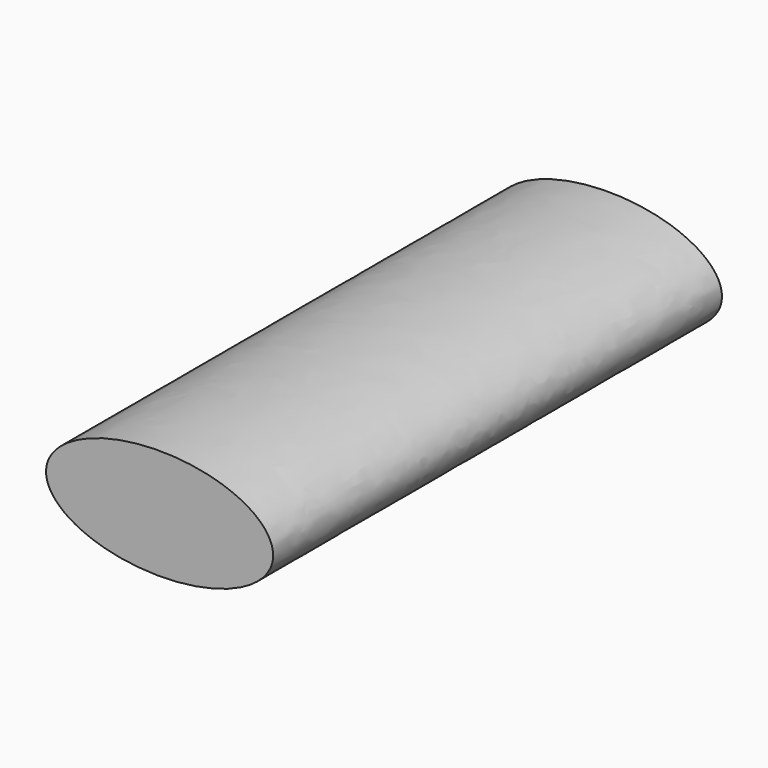
from build123d import *

# Parameters (mm, degrees)
F1_DEPTH = 228.6


with BuildPart() as f1:
    # F0 (on Front) → F1 (new body)
    with BuildSketch(Plane.XZ):
        with BuildLine():
            add(Edge.make_bspline(
                [(-46.262965, 0), (-46.262965, -38.960091), (23.131482, -19.480045), (92.525929, 0), (23.131482, 19.480045), (-46.262965, 38.960091), (-46.262965, 0)],
                knots=[0, 0, 0, 2.094395, 2.094395, 4.18879, 4.18879, 6.283185, 6.283185, 6.283185], degree=2, weights=[1, 0.5, 1, 0.5, 1, 0.5, 1]))
        make_face()
        with BuildLine():
            add(Edge.make_bspline(
                [(-46.262965, 0), (-46.262965, -38.960091), (23.131482, -19.480045), (92.525929, 0), (23.131482, 19.480045), (-46.262965, 38.960091), (-46.262965, 0)],
                knots=[0, 0, 0, 2.094395, 2.094395, 4.18879, 4.18879, 6.283185, 6.283185, 6.283185], degree=2, weights=[1, 0.5, 1, 0.5, 1, 0.5, 1]))
        make_face()
    extrude(amount=F1_DEPTH)


solid = f1.part
